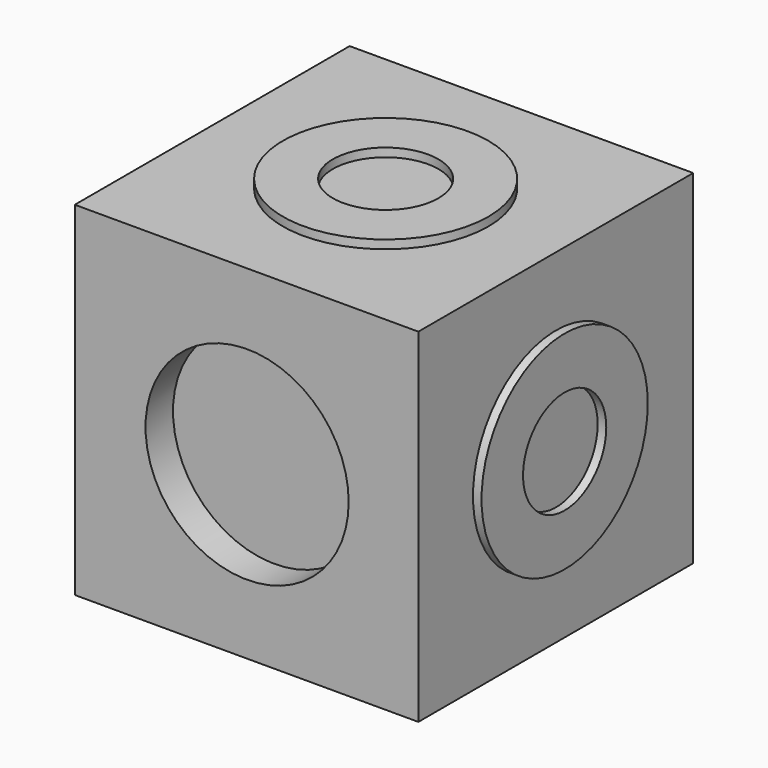
from build123d import *

# Parameters (mm, degrees)
BOX_W         = 10
BOX_H         = 10
BOX_DEPTH     = 10
SKETCH_R      = 2.991239
SKETCH_R_2    = 1.537038
PAD_DEPTH     = 0.25
SKETCH001_R   = 3.024278
SKETCH001_R_2 = 1.519206
PAD001_DEPTH  = 0.25
SKETCH002_R   = 3.023334
SKETCH002_R_2 = 1.513555
PAD002_DEPTH  = 0.25
SKETCH003_R   = 3.023333
SKETCH003_R_2 = 1.513555
PAD003_DEPTH  = 0.25
SKETCH004_R   = 2.956459
POCKET_DEPTH  = 1


with BuildPart() as part:
    # Box → Box (new body)
    with BuildSketch(Plane.XY):
        with Locations((5, 5)):
            Rectangle(BOX_W, BOX_H)
    extrude(amount=BOX_DEPTH)

    # Sketch → Pad (new body)
    with BuildSketch(Plane.XY.offset(10)):
        with Locations((5.01728, 5.037612)):
            Circle(SKETCH_R)
        with Locations((5.01728, 5.037612)):
            Circle(SKETCH_R_2, mode=Mode.SUBTRACT)
    extrude(amount=PAD_DEPTH)

    # Sketch001 → Pad001 (new body)
    with BuildSketch(Plane(origin=(0, 0, 0), x_dir=(1, 0, 0), z_dir=(0, 0, -1))):
        with Locations((4.987519, -5.042684)):
            Circle(SKETCH001_R)
        with Locations((4.987519, -5.042684)):
            Circle(SKETCH001_R_2, mode=Mode.SUBTRACT)
    extrude(amount=PAD001_DEPTH)

    # Sketch002 → Pad002 (new body)
    with BuildSketch(Plane.YZ.offset(10)):
        with Locations((5.010271, 4.975845)):
            Circle(SKETCH002_R)
        with Locations((5.010271, 4.975845)):
            Circle(SKETCH002_R_2, mode=Mode.SUBTRACT)
    extrude(amount=PAD002_DEPTH)

    # Sketch003 → Pad003 (new body)
    with BuildSketch(Plane(origin=(0, 0, 0), x_dir=(0, -1, 0), z_dir=(-1, 0, 0))):
        with Locations((-5.010272, 4.975843)):
            Circle(SKETCH003_R)
        with Locations((-5.010272, 4.975843)):
            Circle(SKETCH003_R_2, mode=Mode.SUBTRACT)
    extrude(amount=PAD003_DEPTH)

    # Sketch004 → Pocket (cut)
    with BuildSketch(Plane.XZ):
        with Locations((5.015462, 4.975839)):
            Circle(SKETCH004_R)
    extrude(amount=-POCKET_DEPTH, mode=Mode.SUBTRACT)


solid = part.part
